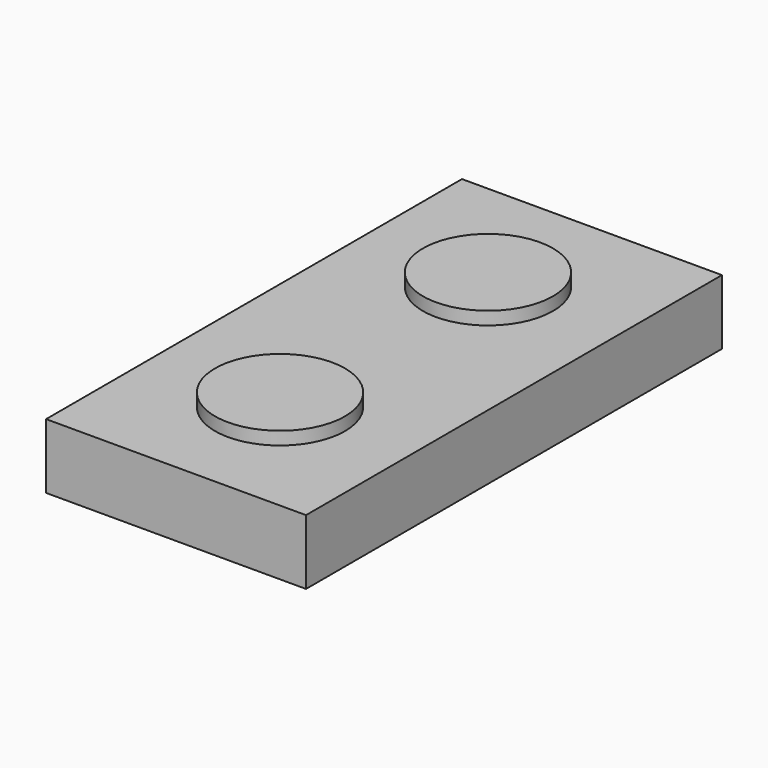
from build123d import *

# Parameters (mm, degrees)
F0_R     = 6.35
F1_DEPTH = 6.35
F2_DEPTH = 7.62


with BuildPart() as f1:
    # F0 (on Top) → F1 (new body)
    with BuildSketch(Plane.XY):
        Polygon((18.784754, 23.643774), (-6.615246, 23.643774), (-6.615246, 10.943774), (-6.615246, -14.456226), (-6.615246, -27.156226), (18.784754, -27.156226), align=None)
        with Locations((6.084754, -14.456226)):
            Circle(F0_R, mode=Mode.SUBTRACT)
        with Locations((6.084754, 10.943774)):
            Circle(F0_R, mode=Mode.SUBTRACT)
    extrude(amount=F1_DEPTH)

    # F0 (on Top) → F2 (join)
    with BuildSketch(Plane.XY):
        with Locations((6.084754, 10.943774)):
            Circle(F0_R)
        with Locations((6.084754, -14.456226)):
            Circle(F0_R)
    extrude(amount=F2_DEPTH)


solid = f1.part
